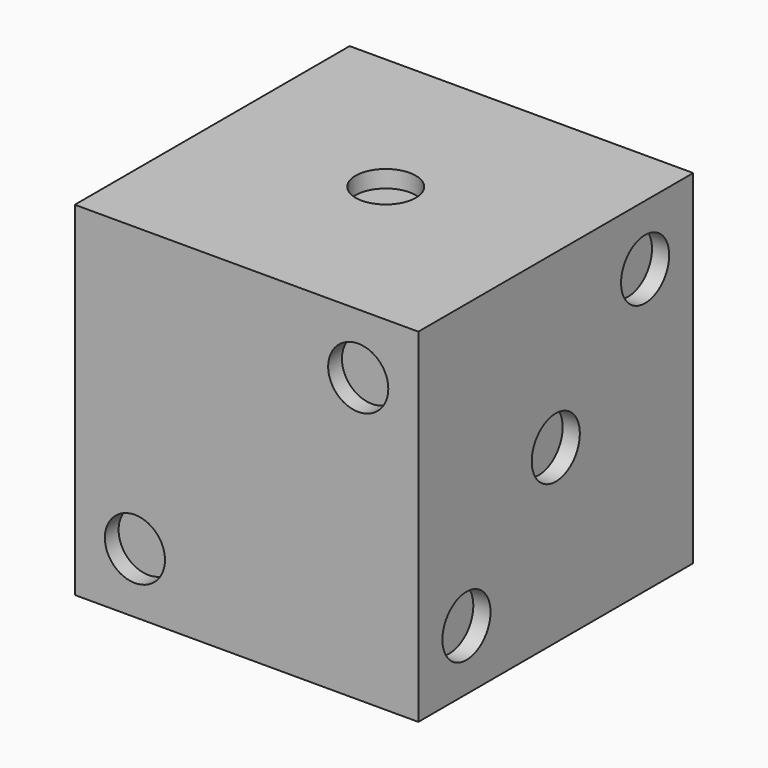
from build123d import *

# Parameters (mm, degrees)
F0_W      = 127
F0_H      = 127
F1_DEPTH  = 127
F2_R      = 11.1125
F3_DEPTH  = 6.35
F6_R      = 11.1125
F7_DEPTH  = 6.35
F5_R      = 11.1125
F8_DEPTH  = 6.35
F10_R     = 11.1125
F11_DEPTH = 6.35
F13_R     = 11.1125
F14_DEPTH = 6.35
F15_R     = 11.1125
F16_DEPTH = 6.35


with BuildPart() as f1:
    # F0 (on Top) → F1 (new body)
    with BuildSketch(Plane.XY):
        with Locations((63.5, 63.5)):
            Rectangle(F0_W, F0_H)
    extrude(amount=F1_DEPTH)

    # F2 (on face) → F3 (cut)
    with BuildSketch(Plane.XY.offset(127)):
        with Locations((63.05407, 64.851403)):
            Circle(F2_R)
    extrude(amount=-F3_DEPTH, mode=Mode.SUBTRACT)

    # F6 (on face) → F7 (cut)
    with BuildSketch(Plane.YZ.offset(127)):
        with Locations((22.225, 22.225)):
            Circle(F6_R)
        with Locations((63.5, 63.5)):
            Circle(F6_R)
        with Locations((104.775, 104.775)):
            Circle(F6_R)
    extrude(amount=-F7_DEPTH, mode=Mode.SUBTRACT)

    # F5 (on face) → F8 (cut)
    with BuildSketch(Plane.XZ):
        with Locations((22.225, 22.225)):
            Circle(F5_R)
        with Locations((104.775, 104.775)):
            Circle(F5_R)
    extrude(amount=-F8_DEPTH, mode=Mode.SUBTRACT)

    # F10 (on face) → F11 (cut)
    with BuildSketch(Plane(origin=(0, 0, 0), x_dir=(1, 0, 0), z_dir=(0, 0, -1))):
        with Locations((104.775, -104.775)):
            Circle(F10_R)
        with Locations((104.775, -22.225)):
            Circle(F10_R)
        with Locations((22.225, -104.775)):
            Circle(F10_R)
        with Locations((22.225, -22.225)):
            Circle(F10_R)
    extrude(amount=-F11_DEPTH, mode=Mode.SUBTRACT)

    # F13 (on face) → F14 (cut)
    with BuildSketch(Plane(origin=(0, 127, 0), x_dir=(-1, 0, 0), z_dir=(0, 1, 0))):
        with Locations((-20.733472, 21.824453)):
            Circle(F13_R)
        with Locations((-63.500002, 63.281804)):
            Circle(F13_R)
        with Locations((-107.575707, 20.078881)):
            Circle(F13_R)
        with Locations((-106.266536, 107.357517)):
            Circle(F13_R)
        with Locations((-17.678721, 110.41227)):
            Circle(F13_R)
    extrude(amount=-F14_DEPTH, mode=Mode.SUBTRACT)

    # F15 (on face) → F16 (cut)
    with BuildSketch(Plane(origin=(0, 0, 0), x_dir=(0, -1, 0), z_dir=(-1, 0, 0))):
        with Locations((-22.225, 104.775)):
            Circle(F15_R)
        with Locations((-63.5, 104.775)):
            Circle(F15_R)
        with Locations((-104.775, 104.775)):
            Circle(F15_R)
        with Locations((-22.225, 22.225)):
            Circle(F15_R)
        with Locations((-63.5, 22.225)):
            Circle(F15_R)
        with Locations((-104.775, 22.225)):
            Circle(F15_R)
    extrude(amount=-F16_DEPTH, mode=Mode.SUBTRACT)


solid = f1.part
